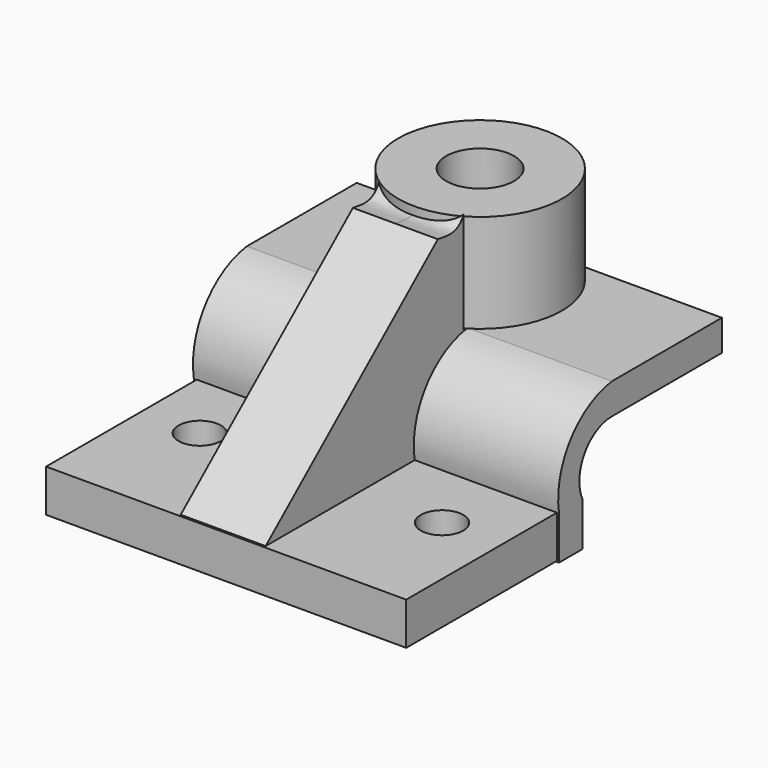
from build123d import *

# Parameters (mm, degrees)
F1_DEPTH  = 12.7
F2_DEPTH  = 12.7
F3_W      = 25.4
F3_H      = 55.7129587978
F4_DEPTH  = 12.7
F6_D      = 12.7
F7_DEPTH  = 55.88
F8_DEPTH  = 53.34
F10_D     = 50.8
F10_DEPTH = 33.1269099427
F12_DEPTH = 29.464
F13_DEPTH = 25.4
F15_D     = 20.32
F15_2_D   = 20.32
F15_3_D   = 20.32
F15_4_D   = 20.32


with BuildPart() as f1:
    # F0 (on Right) → F1 (new body)
    with BuildSketch(Plane.YZ):
        with BuildLine():
            Line((-34.9753573537, 0), (20.7376014441, 0))
            ThreePointArc((20.7376014441, 0), (24.9488611287, 17.5963253467), (40.5466556549, 26.765522681))
            Line((40.5466556549, 26.765522681), (40.5466556549, 44.106092304))
            Line((40.5466556549, 44.106092304), (40.5466556549, 59.8914325237))
            add(Edge.make_bspline(
                [(29.4040590525, 54.629649967), (32.0270746005, 54.16689326), (37.1802803584, 53.2577562445), (39.4380872753, 57.7069215539), (40.5466556549, 59.8914325237)],
                knots=[0, 0, 0, 0, 0.5090065624, 1, 1, 1, 1], degree=3))
            Line((29.4040590525, 54.629649967), (-34.9753573537, 0))
        make_face()
    extrude(amount=F1_DEPTH)

    # F2 (add): a face of the model
    f2_faces = [f1.faces().sort_by_distance(p)[0] for p in [
        (0, 11.2568434732, 22.7028635071),
    ]]
    extrude(f2_faces, amount=F2_DEPTH)

    # F3 (on face) → F4 (join)
    with BuildSketch(Plane(origin=(0, 0, 0), x_dir=(1, 0, 0), z_dir=(0, 0, -1))):
        Polygon((-52.4630360305, 35.5943925679), (-52.4630360305, -20.7376014441), (-12.7, -20.7376014441), (-12.7, 34.9753573537), (12.7, 34.9753573537), (12.7, -20.7376014441), (55.2486851811, -20.7376014441), (55.2486851811, 35.5943925679), align=None)
        with Locations((0, 7.1188779548)):
            Rectangle(F3_W, F3_H)
    extrude(amount=F4_DEPTH)

    # F6 (through all)
    with Locations(Plane.XY):
        with Locations((-34.9643975496, 0), (37.4901294708, 0)):
            Hole(F6_D / 2)

    # F0 (on Right) → F7 (join)
    with BuildSketch(Plane.YZ):
        with BuildLine():
            ThreePointArc((40.5466556549, 26.765522681), (24.9488611287, 17.5963253467), (20.7376014441, 0))
            Line((20.7376014441, 0), (20.6894278526, -12.9558527842))
            Line((20.6894278526, -12.9558527842), (29.5723360032, -12.9558527842))
            Line((29.5723360032, -12.9558527842), (29.5723360032, 0))
            ThreePointArc((29.5723360032, 0), (30.2105216332, 11.7969349668), (40.5466556549, 17.5187606364))
            Line((40.5466556549, 17.5187606364), (81.6358923912, 17.5187606364))
            Line((81.6358923912, 17.5187606364), (81.6358923912, 26.765522681))
            Line((81.6358923912, 26.765522681), (40.5466556549, 26.765522681))
        make_face()
    extrude(amount=F7_DEPTH)

    # F10 (through all, one way)
    with BuildSketch(Plane(origin=(0, 0, 26.765522681), x_dir=(1, 0, 0), z_dir=(0, 0, -1))):
        with Locations((0, -61.0912740231)):
            Circle(F10_D / 2)
    extrude(amount=-F10_DEPTH, mode=Mode.SUBTRACT)

    # F15 (through all)
    with Locations(Plane.XY.offset(56.229522681)):
        with Locations((0, 61.0912740231)):
            Hole(F15_D / 2)


with BuildPart() as f8:
    # F0 (on Right) → F8 (new body)
    with BuildSketch(Plane.YZ):
        with BuildLine():
            ThreePointArc((40.5466556549, 26.765522681), (24.9488611287, 17.5963253467), (20.7376014441, 0))
            Line((20.7376014441, 0), (20.6894278526, -12.9558527842))
            Line((20.6894278526, -12.9558527842), (29.5723360032, -12.9558527842))
            Line((29.5723360032, -12.9558527842), (29.5723360032, 0))
            ThreePointArc((29.5723360032, 0), (30.2105216332, 11.7969349668), (40.5466556549, 17.5187606364))
            Line((40.5466556549, 17.5187606364), (81.6358923912, 17.5187606364))
            Line((81.6358923912, 17.5187606364), (81.6358923912, 26.765522681))
            Line((81.6358923912, 26.765522681), (40.5466556549, 26.765522681))
        make_face()
    extrude(amount=-F8_DEPTH)

    # F15#2 (through all)
    with Locations(Plane.XY.offset(56.229522681)):
        with Locations((0, 61.0912740231)):
            Hole(F15_2_D / 2)


with BuildPart() as f12:
    # F11 (on face) → F12 (new body)
    with BuildSketch(Plane.XY.offset(26.765522681)):
        with BuildLine():
            Line((0, 81.6358923912), (-13.3348583138, 81.6358923912))
            ThreePointArc((-13.3348583138, 81.6358923912), (-24.4928518173, 61.0912740231), (-13.3348583138, 40.5466556549))
            Line((-13.3348583138, 40.5466556549), (0, 40.5466556549))
            Line((0, 40.5466556549), (0, 81.6358923912))
        make_face()
        with BuildLine():
            ThreePointArc((-13.3348583138, 40.5466556549), (11.6895483544, 39.5679320564), (24.4928518173, 61.0912740231))
            ThreePointArc((24.4928518173, 61.0912740231), (11.6895483544, 82.6146159897), (-13.3348583138, 81.6358923912))
            Line((-13.3348583138, 81.6358923912), (0, 81.6358923912))
            Line((0, 81.6358923912), (0, 40.5466556549))
            Line((0, 40.5466556549), (-13.3348583138, 40.5466556549))
        make_face()
    extrude(amount=F12_DEPTH)


with BuildPart() as f13:
    # F13 (new): a face of the model
    f13_faces = [f12.part.faces().sort_by_distance(p)[0] for p in [
        (0, 61.0912740231, 26.765522681),
    ]]
    extrude(f13_faces, amount=F13_DEPTH)

    # F15#4 (through all)
    with Locations(Plane.XY.offset(56.229522681)):
        with Locations((0, 61.0912740231)):
            Hole(F15_4_D / 2)


with BuildPart() as f12_1:
    add(f12.part)

    # F15#3 (through all)
    with Locations(Plane.XY.offset(56.229522681)):
        with Locations((0, 61.0912740231)):
            Hole(F15_3_D / 2)


solid = Compound([f1.part, f8.part, f13.part, f12_1.part])
